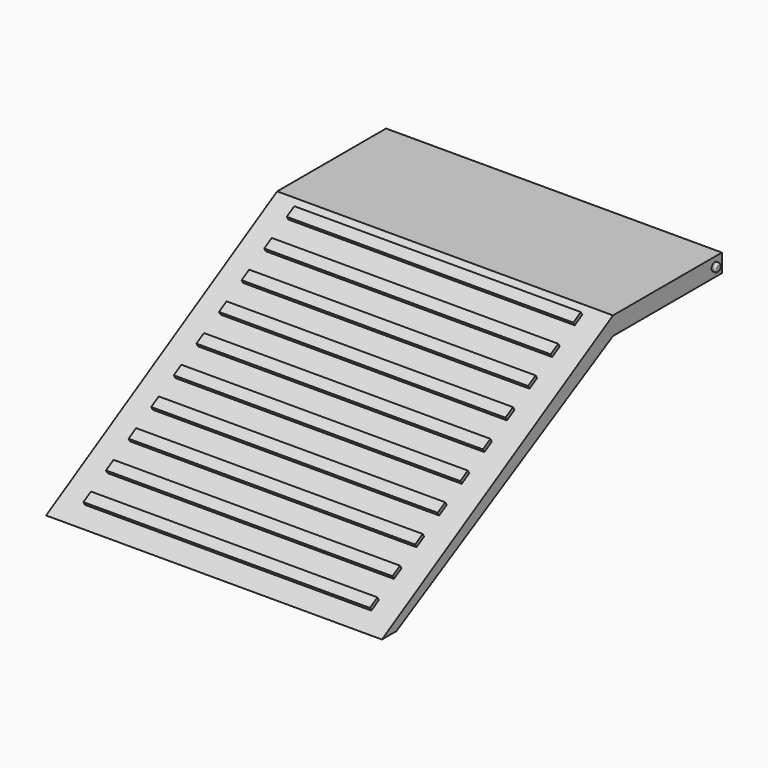
from build123d import *

# Parameters (mm, degrees)
F0_W     = 19.05
F0_H     = 2.54
F1_DEPTH = 46.99
F2_W     = 40.0845290253
F2_H     = 1.524
F3_DEPTH = 0.508
F4_R     = 0.57150051
F5_DEPTH = 0.508
F6_R     = 0.254
F7_R     = 0.5715
F8_DEPTH = 0.508
F9_R     = 0.254


with BuildPart() as f1:
    # F0 (on Right) → F1 (new body)
    with BuildSketch(Plane.YZ):
        with Locations((9.525, 1.27)):
            Rectangle(F0_W, F0_H)
        Polygon((0, 0), (0, 2.54), (-40.4138714075, -20.9532231092), (-37.8738714075, -20.9532231092), align=None)
    extrude(amount=F1_DEPTH)

    # F2 (on face) → F3 (join)
    with BuildSketch(Plane(origin=(0, -1.1036035582, 1.8984577841), x_dir=(1, 0, 0), z_dir=(0, -0.5025690754, 0.8645370579))):
        with Locations((23.495, -0.7067697006)):
            Rectangle(F2_W, F2_H)
        with Locations((23.495, -5.2787697006)):
            Rectangle(F2_W, F2_H)
        with Locations((23.495, -9.8507697006)):
            Rectangle(F2_W, F2_H)
        with Locations((23.495, -14.4227697006)):
            Rectangle(F2_W, F2_H)
        with Locations((23.495, -18.9947697006)):
            Rectangle(F2_W, F2_H)
        with Locations((23.495, -23.5667697006)):
            Rectangle(F2_W, F2_H)
        with Locations((23.495, -28.1387697006)):
            Rectangle(F2_W, F2_H)
        with Locations((23.495, -32.7107697006)):
            Rectangle(F2_W, F2_H)
        with Locations((23.495, -37.2827697006)):
            Rectangle(F2_W, F2_H)
        with Locations((23.495, -41.8547697006)):
            Rectangle(F2_W, F2_H)
    extrude(amount=F3_DEPTH)

    # F4 (on face) → F5 (join)
    with BuildSketch(Plane(origin=(0, 0, 0), x_dir=(0, -1, 0), z_dir=(-1, 0, 0))):
        with Locations((-17.5560880452, 1.3172084)):
            Circle(F4_R)
    extrude(amount=F5_DEPTH)

    # F6
    f6_edges = [f1.edges().sort_by_distance(p)[0] for p in [
        (-0.508, 18.127589, 1.317208),
    ]]
    fillet(f6_edges, radius=F6_R)

    # F7 (on face) → F8 (join)
    with BuildSketch(Plane.YZ.offset(46.99)):
        with Locations((17.8131051362, 1.299622003)):
            Circle(F7_R)
    extrude(amount=F8_DEPTH)

    # F9
    f9_edges = [f1.edges().sort_by_distance(p)[0] for p in [
        (47.498, 17.241605, 1.299622),
    ]]
    fillet(f9_edges, radius=F9_R)


solid = f1.part
